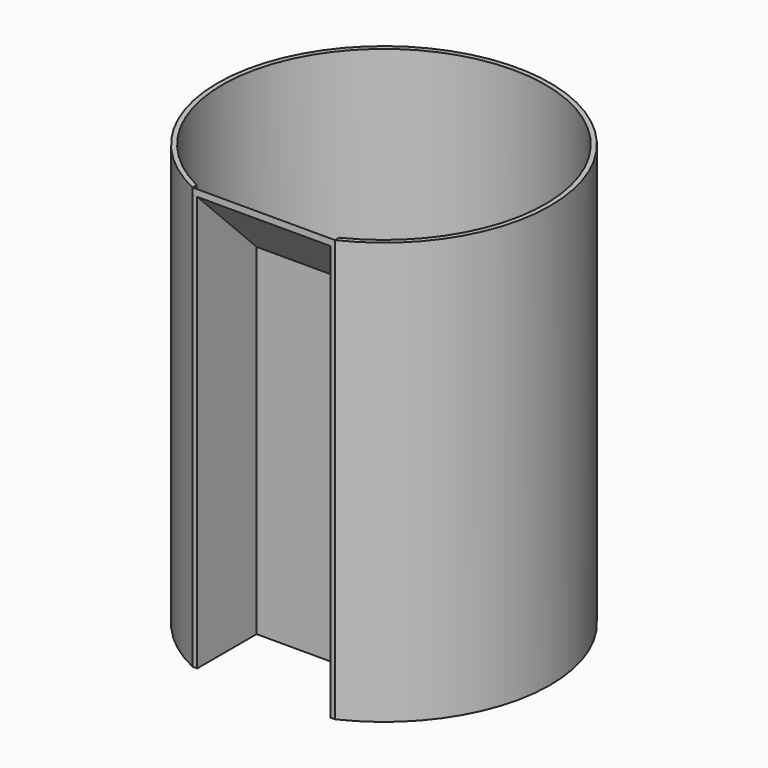
from build123d import *

# Parameters (mm, degrees)
F3_DEPTH = 1.27
F4_DEPTH = 38.1
F7_DEPTH = 1.27
F8_DEPTH = 112.7691580497
F9_DEPTH = 1.27


with BuildPart() as f3:
    # F2 (on plane+point) → F3 (new body)
    with BuildSketch(Plane.YZ.offset(19.05)):
        Polygon((-40.1609262841, 0), (-20.3232679032, 0), (-20.3232679032, 1.27), (-20.3232679032, 91.1354484446), (-38.8909262841, 109.7031068255), (-40.1609262841, 110.9731068255), align=None)
    extrude(amount=-F3_DEPTH)

    # F2 (on plane+point) → F4 (join)
    with BuildSketch(Plane.YZ.offset(19.05)):
        Polygon((-20.3232679032, 0), (-19.0532679032, 0), (-19.0532679032, 91.6614996688), (-40.1609262841, 112.7691580497), (-40.1609262841, 110.9731068255), (-38.8909262841, 109.7031068255), (-20.3232679032, 91.1354484446), (-20.3232679032, 1.27), align=None)
    extrude(amount=-F4_DEPTH)

    # F6 (on offset) → F7 (join)
    with BuildSketch(Plane(origin=(-19.05, 0, 0), x_dir=(0, -1, 0), z_dir=(-1, 0, 0))):
        Polygon((20.3232679032, 0), (40.1597768068, 0), (40.1609262841, 110.9731068255), (20.3232679032, 91.1354484446), align=None)
    extrude(amount=-F7_DEPTH)

    # F0 (on Top) → F8 (join, through all)
    with BuildSketch(Plane.XY):
        with BuildLine():
            Line((19.05, -38.7506116081), (19.05, -40.1609262841))
            ThreePointArc((19.05, -40.1609262841), (0, 44.45), (-19.05, -40.1609262841))
            Line((-19.05, -40.1609262841), (-19.05, -38.7506116081))
            ThreePointArc((-19.05, -38.7506116081), (0, 43.18), (19.05, -38.7506116081))
        make_face()
    extrude(amount=F8_DEPTH)

    # F0 (on Top) → F9 (join)
    with BuildSketch(Plane.XY):
        with BuildLine():
            Line((19.05, -19.0532679032), (19.05, -38.7506116081))
            ThreePointArc((19.05, -38.7506116081), (0, 43.18), (-19.05, -38.7506116081))
            Line((-19.05, -38.7506116081), (-19.05, -19.0532679032))
            Line((-19.05, -19.0532679032), (0, -19.0532679032))
            Line((0, -19.0532679032), (19.05, -19.0532679032))
        make_face()
    extrude(amount=F9_DEPTH)


solid = f3.part
